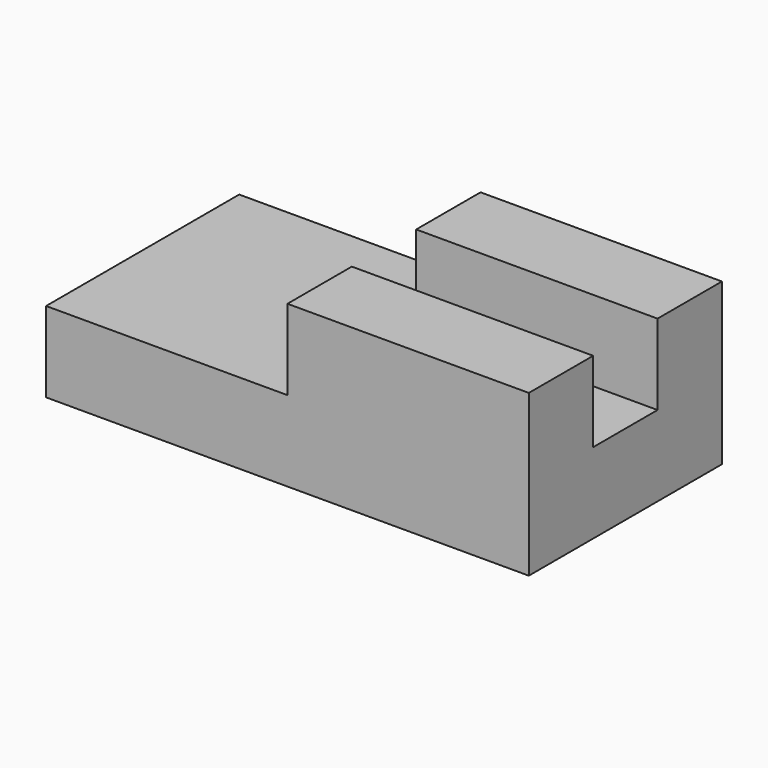
from build123d import *

# Parameters (mm, degrees)
F0_W     = 152.4
F0_H     = 50.8
F1_DEPTH = 76.2
F2_W     = 76.2
F2_H     = 25.4
F3_DEPTH = 76.2
F5_DEPTH = 152.4


with BuildPart() as f1:
    # F0 (on Front) → F1 (new body)
    with BuildSketch(Plane.XZ):
        with Locations((76.2, 25.4)):
            Rectangle(F0_W, F0_H)
    extrude(amount=-F1_DEPTH)

    # F2 (on face) → F3 (cut)
    with BuildSketch(Plane.XZ):
        with Locations((38.1, 38.1)):
            Rectangle(F2_W, F2_H)
    extrude(amount=-F3_DEPTH, mode=Mode.SUBTRACT)

    # F4 (on Right) → F5 (cut)
    with BuildSketch(Plane.YZ):
        Polygon((50.8, 50.8), (25.4, 50.8), (25.4, 41.440621), (25.4, 25.4), (50.8, 25.4), align=None)
    extrude(amount=F5_DEPTH, mode=Mode.SUBTRACT)


solid = f1.part
